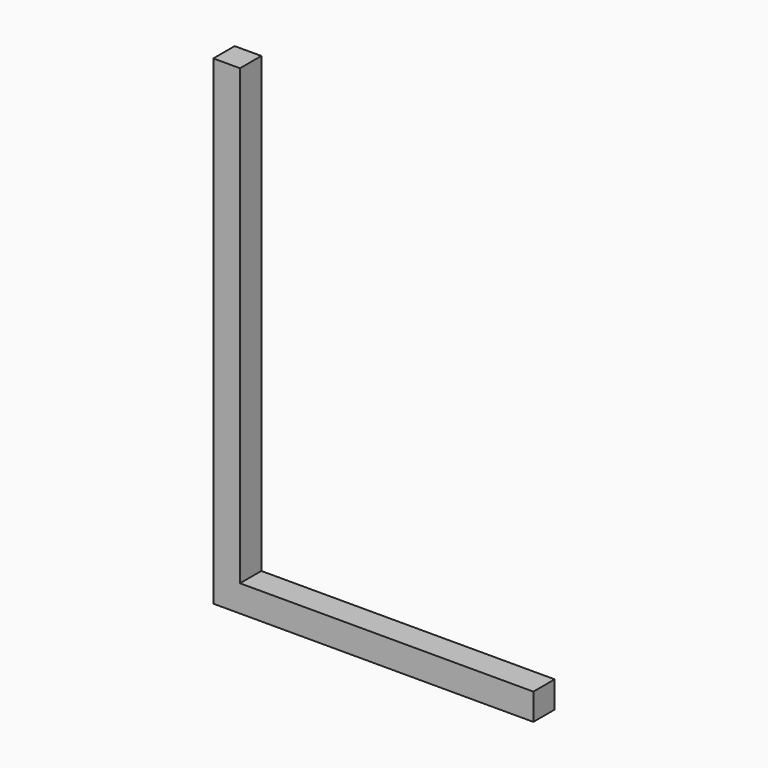
from build123d import *

# Parameters (mm, degrees)
F0_W     = 2.54
F0_H     = 2.54
F0_W_2   = 27.94
F0_H_2   = 43.18
F1_DEPTH = 2.54
F3_DEPTH = 1.778


with BuildPart() as f1:
    # F0 (on Front) → F1 (new body)
    with BuildSketch(Plane.XZ):
        with Locations((1.27, 1.27)):
            Rectangle(F0_W, F0_H)
        with Locations((16.51, 1.27)):
            Rectangle(F0_W_2, F0_H)
        with Locations((1.27, 24.13)):
            Rectangle(F0_W, F0_H_2)
    extrude(amount=F1_DEPTH)

    # F2 (on face) → F3 (cut)
    with BuildSketch(Plane(origin=(0, 0, 0), x_dir=(1, 0, 0), z_dir=(0, 0, -1))):
        with BuildLine():
            ThreePointArc((26.188626, 1.27), (27.077626, 0.381), (27.966626, 1.27))
            Line((27.966626, 1.27), (26.188626, 1.27))
        make_face()
        with BuildLine():
            Line((26.188626, 1.27), (27.966626, 1.27))
            ThreePointArc((27.966626, 1.27), (27.077626, 2.159), (26.188626, 1.27))
        make_face()
    extrude(amount=-F3_DEPTH, mode=Mode.SUBTRACT)


solid = f1.part
